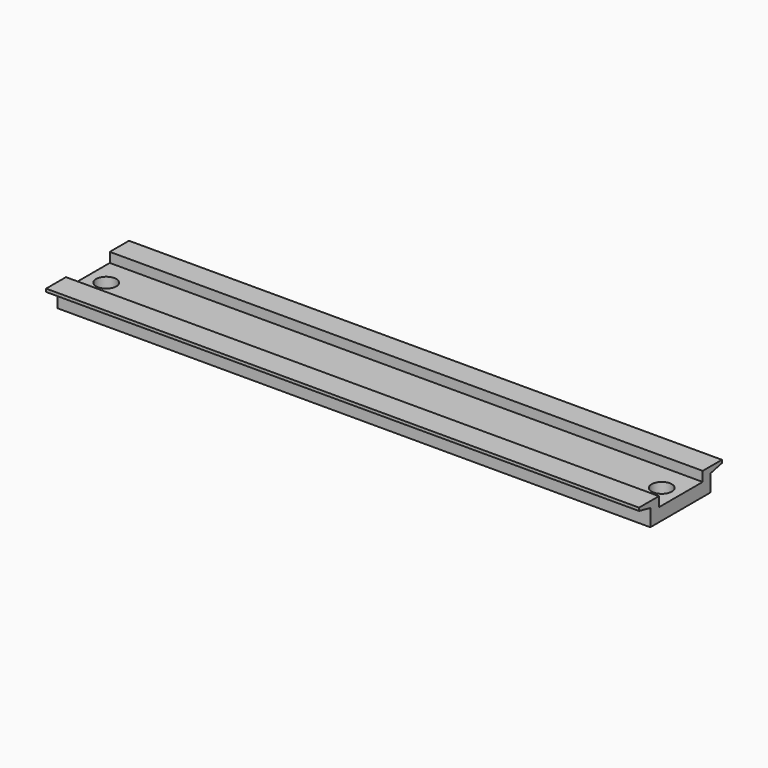
from build123d import *

# Parameters (mm, degrees)
F0_W     = 206
F0_H     = 36
F0_R     = 3.5
F1_DEPTH = 8
F2_W     = 19.0265765414
F2_H     = 3.3935653903
F3_DEPTH = 206.001
F5_DEPTH = 206.001


with BuildPart() as f1:
    # F0 (on Top) → F1 (new body)
    with BuildSketch(Plane.XY):
        Rectangle(F0_W, F0_H)
        with Locations((-96.5, 0)):
            Circle(F0_R, mode=Mode.SUBTRACT)
        with Locations((96.5, 0)):
            Circle(F0_R, mode=Mode.SUBTRACT)
    extrude(amount=F1_DEPTH)

    # F2 (on face) → F3 (cut, through all)
    with BuildSketch(Plane.YZ.offset(103)):
        with Locations((0.1401952468, 6.3032173049)):
            Rectangle(F2_W, F2_H)
    extrude(amount=-F3_DEPTH, mode=Mode.SUBTRACT)

    # F4 (on face) → F5 (cut, through all)
    with BuildSketch(Plane.YZ.offset(103)):
        Polygon((13.0982967094, 5.8882250451), (13.0982967094, 0), (18, 0), (18, 6.9697359577), align=None)
        Polygon((-13.0982967094, 5.8882250451), (-18, 6.9697359577), (-18, 0), (-13.0982967094, 0), align=None)
    extrude(amount=-F5_DEPTH, mode=Mode.SUBTRACT)


solid = f1.part
